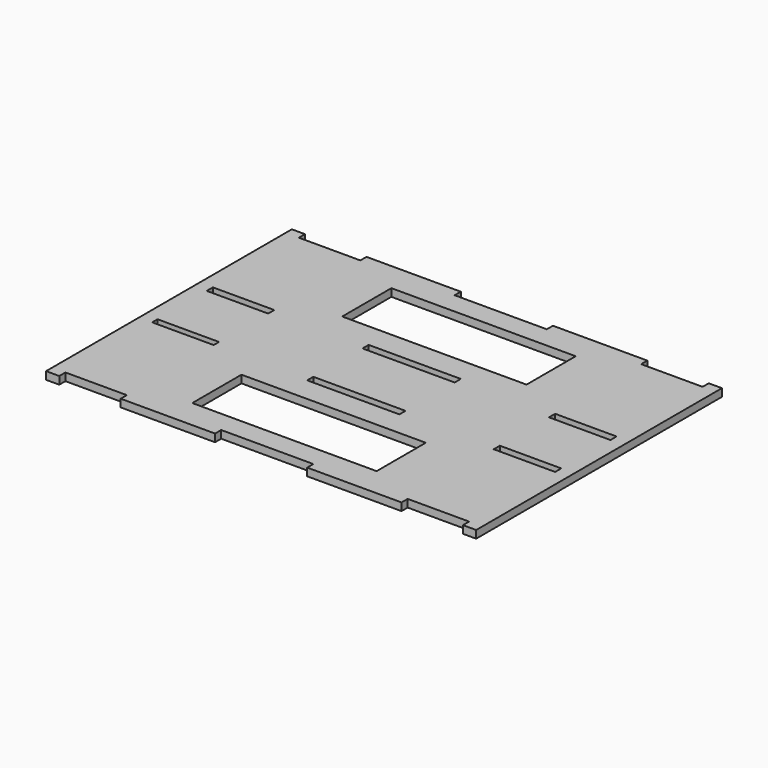
from build123d import *

# Parameters (mm, degrees)
F0_W     = 25.4
F0_H     = 2.7686
F0_W_2   = 76.2
F0_H_2   = 25.4
F0_W_3   = 38.1
F0_H_3   = 3.175
F1_DEPTH = 3.175


with BuildPart() as f1:
    # F0 (on Top) → F1 (new body)
    with BuildSketch(Plane.XY):
        Polygon((-70.7512, 63.5), (-76.2, 63.5), (-76.2, -63.5), (-70.7512, -63.5), (-70.7512, -60.325), (-45.3512, -60.325), (-45.3512, -63.5), (-6.35, -63.5), (-6.35, -60.325), (31.75, -60.325), (31.75, -63.5), (70.7512, -63.5), (70.7512, -60.325), (96.1512, -60.325), (96.1512, -63.5), (101.6, -63.5), (101.6, 63.5), (96.1512, 63.5), (96.1512, 60.325), (70.7512, 60.325), (70.7512, 63.5), (31.75, 63.5), (31.75, 60.325), (-6.35, 60.325), (-6.35, 63.5), (-45.3512, 63.5), (-45.3512, 60.325), (-70.7512, 60.325), align=None)
        with Locations((-58.0512, -14.0843)):
            Rectangle(F0_W, F0_H, mode=Mode.SUBTRACT)
        with Locations((12.7, -38.735)):
            Rectangle(F0_W_2, F0_H_2, mode=Mode.SUBTRACT)
        with Locations((12.7, -14.2875)):
            Rectangle(F0_W_3, F0_H_3, mode=Mode.SUBTRACT)
        with Locations((83.4512, -14.2875)):
            Rectangle(F0_W, F0_H_3, mode=Mode.SUBTRACT)
        with Locations((-58.0512, 14.2875)):
            Rectangle(F0_W, F0_H_3, mode=Mode.SUBTRACT)
        with Locations((12.7, 14.2875)):
            Rectangle(F0_W_3, F0_H_3, mode=Mode.SUBTRACT)
        with Locations((83.4512, 14.2875)):
            Rectangle(F0_W, F0_H_3, mode=Mode.SUBTRACT)
        with Locations((12.7, 38.735)):
            Rectangle(F0_W_2, F0_H_2, mode=Mode.SUBTRACT)
    extrude(amount=F1_DEPTH)


solid = f1.part
